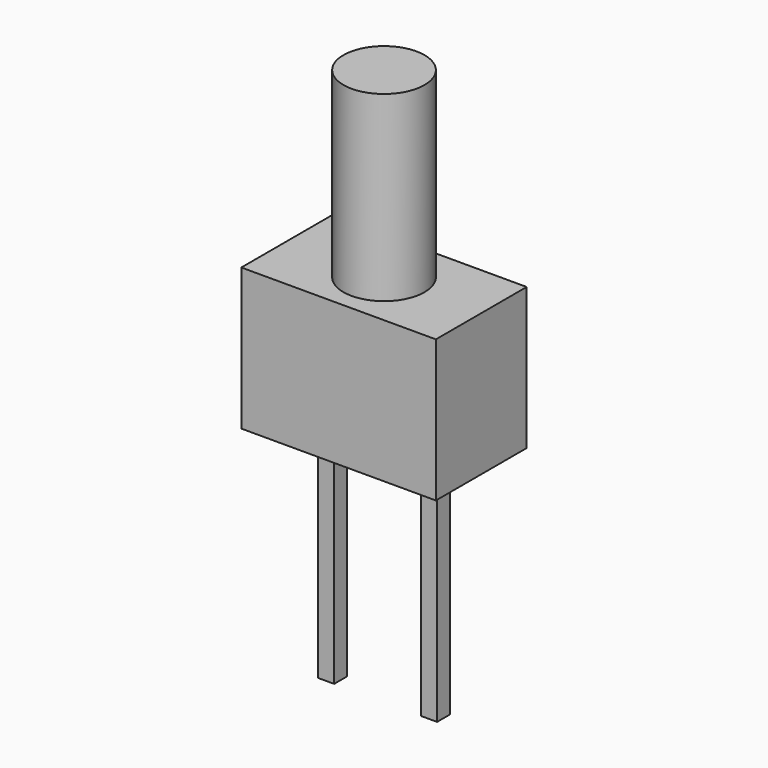
from build123d import *

# Parameters (mm, degrees)
SKETCH_W     = 1
SKETCH_H     = 4.5
SKETCH001_W  = 4.8
SKETCH001_H  = 2.8
PAD_DEPTH    = 3.5
SKETCH002_W  = 0.4
SKETCH002_H  = 0.4
PAD001_DEPTH = 6
SKETCH003_W  = 2.94
SKETCH003_H  = 0.4
PAD002_DEPTH = 0.8


with BuildPart() as revolution:
    # Sketch → Revolution (revolve)
    with BuildSketch(Plane(origin=(1.27, 0, 0), x_dir=(1, 0, 0), z_dir=(0, -1, 0))):
        with Locations((0.5, 8.75)):
            Rectangle(SKETCH_W, SKETCH_H)
    revolve(axis=Axis((1.27, 0, 0), (0, 0, 1)))


with BuildPart() as pad:
    # Sketch001 → Pad (new body)
    with BuildSketch(Plane(origin=(1.27, 0, 3), x_dir=(1, 0, 0), z_dir=(0, 0, 1))):
        Rectangle(SKETCH001_W, SKETCH001_H)
    extrude(amount=PAD_DEPTH)


with BuildPart() as pad001:
    # Sketch002 → Pad001 (new body)
    with BuildSketch(Plane.XY.offset(3.4)):
        Rectangle(SKETCH002_W, SKETCH002_H)
        with Locations((2.54, 0)):
            Rectangle(SKETCH002_W, SKETCH002_H)
    extrude(amount=-PAD001_DEPTH)


with BuildPart() as pad002:
    # Sketch003 → Pad002 (new body)
    with BuildSketch(Plane.XY.offset(3.4)):
        with Locations((1.27, 0)):
            Rectangle(SKETCH003_W, SKETCH003_H)
    extrude(amount=PAD002_DEPTH)


with BuildPart() as revolution001:
    # Sketch004 → Revolution001 (revolve)
    with BuildSketch(Plane.XZ):
        Polygon((1.27, 4.05), (0.97, 4.35), (1.27, 4.35), align=None)
    revolve(axis=Axis((1.27, 0, 5.374987), (0, 0, -1)))


solid = Compound([revolution.part, pad.part, pad001.part, pad002.part, revolution001.part])
